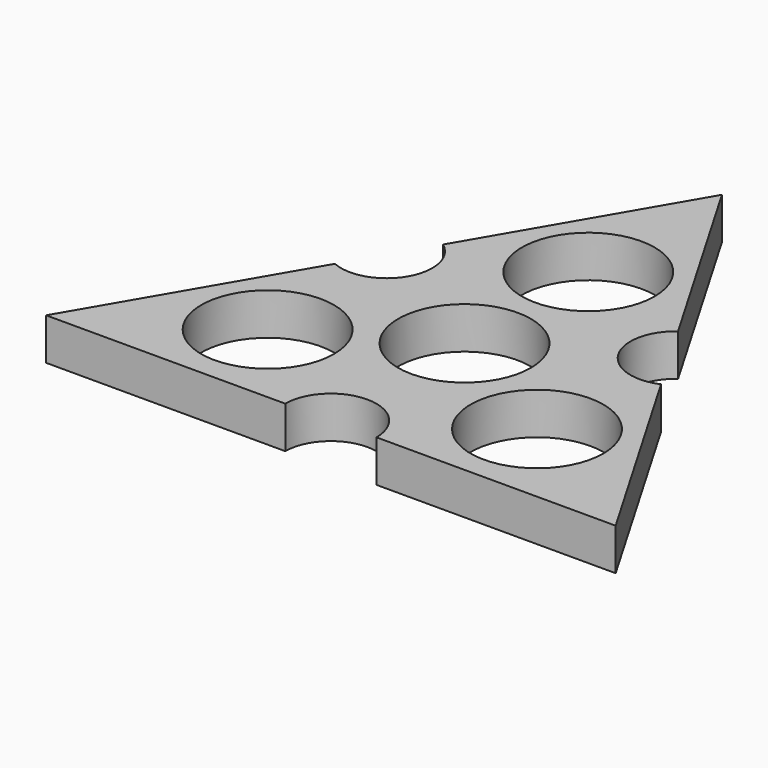
from build123d import *

# Parameters (mm, degrees)
F0_R     = 11.1
F1_DEPTH = 7
F2_R     = 7.62
F3_DEPTH = 25.4


with BuildPart() as f1:
    # F0 (on Top) → F1 (new body)
    with BuildSketch(Plane.XY):
        with BuildLine():
            ThreePointArc((0, -11.1), (7.848885, -7.848885), (11.1, 0))
            ThreePointArc((11.1, 0), (-7.848885, 7.848885), (0, -11.1))
        make_face()
        Polygon((-47.625, -27.94), (0, -27.94), (47.625, -27.94), (0, 53.81), align=None)
        with Locations((-22.521795, -13.005035)):
            Circle(F0_R, mode=Mode.SUBTRACT)
        with Locations((22.521795, -13.005035)):
            Circle(F0_R, mode=Mode.SUBTRACT)
        with BuildLine():
            ThreePointArc((0, -11.1), (-7.848885, 7.848885), (11.1, 0))
            ThreePointArc((11.1, 0), (7.848885, -7.848885), (0, -11.1))
        make_face(mode=Mode.SUBTRACT)
        with Locations((0, 25.87)):
            Circle(F0_R, mode=Mode.SUBTRACT)
    extrude(amount=F1_DEPTH)

    # F2 (on face) → F3 (cut)
    with BuildSketch(Plane.XY.offset(7)):
        with Locations((0, -27.94)):
            Circle(F2_R)
        with Locations((24.19675, 13.97)):
            Circle(F2_R)
        with Locations((-24.19675, 13.97)):
            Circle(F2_R)
    extrude(amount=-F3_DEPTH, mode=Mode.SUBTRACT)


solid = f1.part
